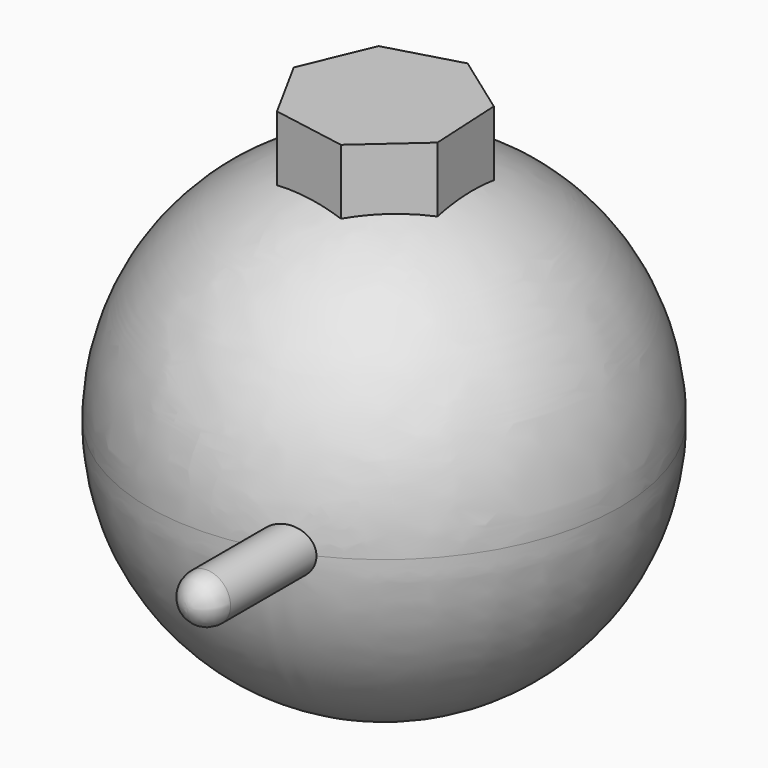
from build123d import *

# Parameters (mm, degrees)
F5_DEPTH = 56.134


with BuildPart() as f1:
    # F0 (on Front) → F1 (revolve)
    with BuildSketch(Plane.XZ):
        with BuildLine():
            ThreePointArc((0, -46.564247), (32.925895, -32.925895), (46.564247, 0))
            ThreePointArc((46.564247, 0), (32.925895, 32.925895), (0, 46.564247))
            Line((0, 46.564247), (0, -46.564247))
        make_face()
    revolve(axis=Axis((0, 0, -4.685173), (0, 0, -1)))

    # F2 (on Right) → F3 (revolve, cut)
    with BuildSketch(Plane.YZ):
        with BuildLine():
            Line((34.574457, 14.662467), (34.574457, 38.918894))
            ThreePointArc((34.574457, 38.918894), (23.611245, 26.79068), (34.574457, 14.662467))
        make_face()
    revolve(axis=Axis((0, 34.574457, 26.79068), (0, 0, -1)), mode=Mode.SUBTRACT)

    # F4 (on Top) → F5 (join)
    with BuildSketch(Plane.XY):
        Polygon((-17.15048, -0.883713), (-10.002235, -13.959771), (4.677897, -16.523837), (15.835477, -6.645117), (15.06862, 8.237512), (2.954784, 16.917127), (-11.384064, 12.857799), align=None)
    extrude(amount=F5_DEPTH)

    # F6 (on Top) → F7 (revolve)
    with BuildSketch(Plane.XY):
        with BuildLine():
            Line((20.197023, -63.175313), (20.197023, -30.230023))
            Line((20.197023, -30.230023), (15.490552, -30.230023))
            Line((15.490552, -30.230023), (15.490552, -67.881783))
            ThreePointArc((15.490552, -67.881783), (18.818529, -66.50329), (20.197023, -63.175313))
        make_face()
    revolve(axis=Axis((15.490552, -49.055903, 0), (0, 1, 0)))


solid = f1.part
